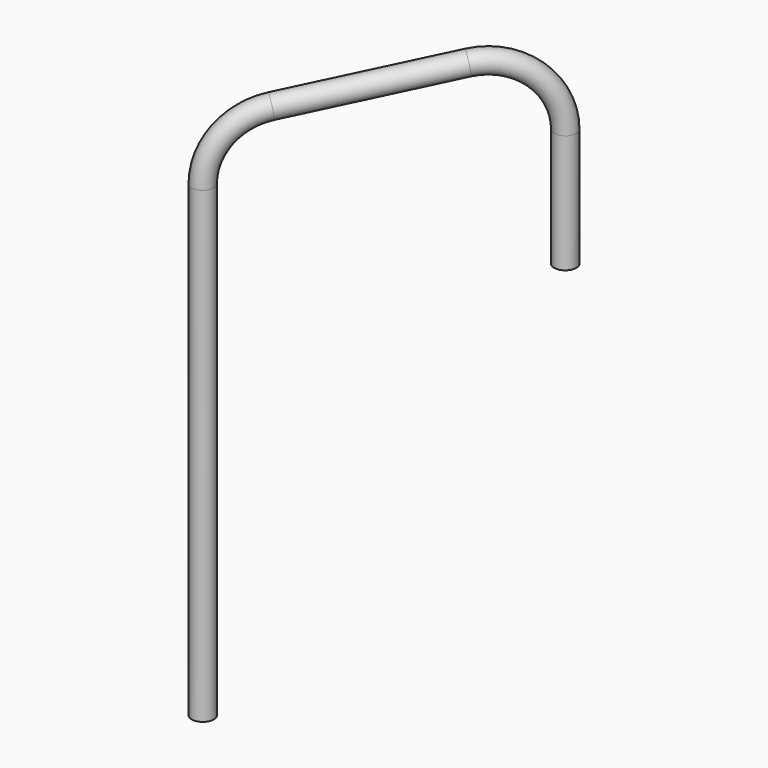
from build123d import *

# Parameters (mm, degrees)
F7_R  = 4.318
F16_T = -1.27


with BuildPart() as f15:
    # F15: sweep along a path in F14
    with BuildLine(Plane(origin=(-298.7616446838, 281.1736357738, 0), x_dir=(0.6853468691, 0.7282167734, 0), z_dir=(0.7282167734, -0.6853468691, 0))) as f15_path:
        Line((-223.6044289721, -425.73702), (-223.6044289721, -379.7346976591))
        ThreePointArc((-223.6044289721, -379.7346976591), (-232.6545404442, -360.2965612998), (-253.3557002418, -354.7101809138))
        Line((-253.3557002418, -354.7101809138), (-313.6476208898, -365.1937600687))
        ThreePointArc((-313.6476208898, -365.1937600687), (-328.7344859794, -373.8683882861), (-334.6963496201, -390.218276814))
        Line((-334.6963496201, -390.218276814), (-334.6963496201, -572.05372))
    # F7 (on line) → F15 (sweep)
    with BuildSketch(Plane(origin=(0, 0, -425.73702), x_dir=(1, 0, 0), z_dir=(0, 0, -1))):
        with Locations((-452.00824, -118.34114)):
            Circle(F7_R)
    sweep(path=f15_path.line)

    # F16
    f16_openings = [f15.faces().sort_by_distance(p)[0] for p in [
        (-452.00824, 118.34114, -425.73702),
    ]]
    offset(amount=F16_T, openings=f16_openings)


solid = f15.part
